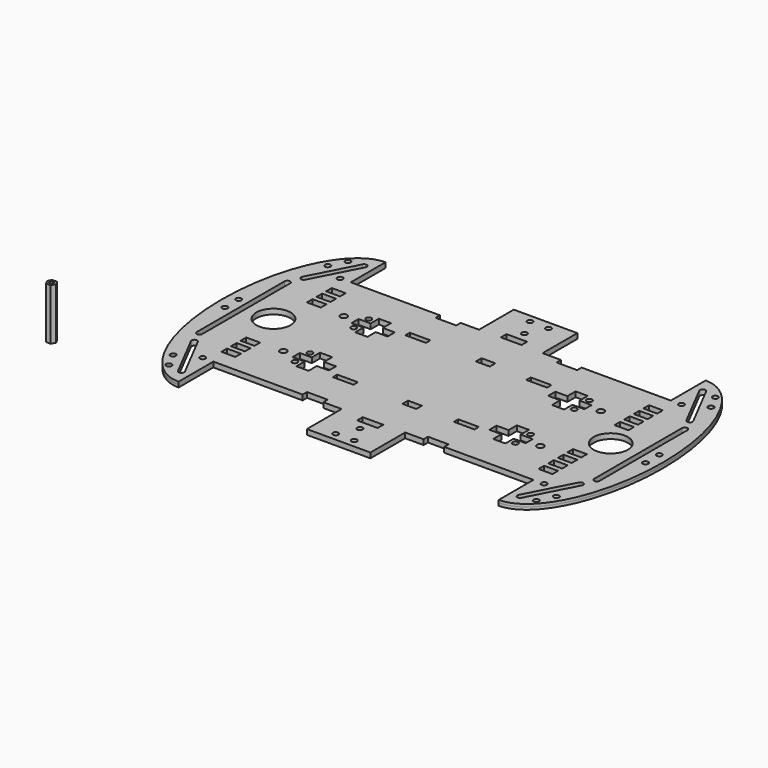
from build123d import *

# Parameters (mm, degrees)
F1_DEPTH = 1.5
F2_R     = 1.6
F2_W     = 12
F2_H     = 4.1
F2_H_2   = 3.2
F2_R_2   = 10
F2_R_3   = 2
F2_W_2   = 8.1
F3_DEPTH = 3
F4_W     = 8.1
F4_H     = 4.1
F5_DEPTH = 3
F6_R     = 1.143171692
F7_DEPTH = 30


with BuildPart() as f1:
    # F0 (on Top) → F1 (new body, symmetric)
    with BuildSketch(Plane.XY):
        with BuildLine():
            Line((18.5, 75.3), (0, 75.3))
            Line((0, 75.3), (-18.5, 75.3))
            Line((-18.5, 75.3), (-18.5, 50))
            Line((-18.5, 50), (-29.2, 50))
            Line((-29.2, 50), (-29.2, 46.8))
            Line((-29.2, 46.8), (-41.2, 46.8))
            Line((-41.2, 46.8), (-41.2, 50))
            Line((-41.2, 50), (-93.2, 50))
            Line((-93.2, 50), (-93.2, 75.3))
            add(Edge.make_bspline(
                [(-93.2, 75.3), (-128.5, 75.3), (-128.5, 0)],
                knots=[0, 0, 0, 1.5707963268, 1.5707963268, 1.5707963268], degree=2, weights=[1, 0.7071067812, 1]))
            add(Edge.make_bspline(
                [(-128.5, 0), (-128.5, -75.3), (-93.2, -75.3)],
                knots=[4.7123889804, 4.7123889804, 4.7123889804, 6.2831853072, 6.2831853072, 6.2831853072], degree=2, weights=[1, 0.7071067812, 1]))
            Line((-93.2, -75.3), (-93.2, -50))
            Line((-93.2, -50), (-41.2, -50))
            Line((-41.2, -50), (-41.2, -46.8))
            Line((-41.2, -46.8), (-29.2, -46.8))
            Line((-29.2, -46.8), (-29.2, -50))
            Line((-29.2, -50), (-18.5, -50))
            Line((-18.5, -50), (-18.5, -75.3))
            Line((-18.5, -75.3), (0, -75.3))
            Line((0, -75.3), (18.5, -75.3))
            Line((18.5, -75.3), (18.5, -50))
            Line((18.5, -50), (29.2, -50))
            Line((29.2, -50), (29.2, -46.8))
            Line((29.2, -46.8), (41.2, -46.8))
            Line((41.2, -46.8), (41.2, -50))
            Line((41.2, -50), (93.2, -50))
            Line((93.2, -50), (93.2, -75.3))
            add(Edge.make_bspline(
                [(93.2, -75.3), (128.5, -75.3), (128.5, 0)],
                knots=[0, 0, 0, 1.5707963268, 1.5707963268, 1.5707963268], degree=2, weights=[1, 0.7071067812, 1]))
            add(Edge.make_bspline(
                [(128.5, 0), (128.5, 75.3), (93.2, 75.3)],
                knots=[4.7123889804, 4.7123889804, 4.7123889804, 6.2831853072, 6.2831853072, 6.2831853072], degree=2, weights=[1, 0.7071067812, 1]))
            Line((93.2, 75.3), (93.2, 50))
            Line((93.2, 50), (41.2, 50))
            Line((41.2, 50), (41.2, 46.8))
            Line((41.2, 46.8), (29.2, 46.8))
            Line((29.2, 46.8), (29.2, 50))
            Line((29.2, 50), (18.5, 50))
            Line((18.5, 50), (18.5, 75.3))
        make_face()
    extrude(amount=F1_DEPTH, both=True)

    # F2 (on face) → F3 (cut, through all)
    with BuildSketch(Plane.XY.offset(1.5)):
        with Locations((0, 59.9)):
            Circle(F2_R)
        with Locations((5.4, 70.7)):
            Circle(F2_R)
        with Locations((0, 52.35)):
            Rectangle(F2_W, F2_H)
        with Locations((35.2341187596, 26.4)):
            Rectangle(F2_W, F2_H_2)
        Polygon((53.7341187596, 24), (46.7341187596, 24), (46.7341187596, 18.8), (53.7341187596, 18.8), (53.7341187596, 12.8), (60.8341187596, 12.8), (60.8341187596, 18.8), (67.8341187596, 18.8), (67.8341187596, 24), (60.8341187596, 24), (60.8341187596, 30), (53.7341187596, 30), align=None)
        with Locations((64.2341187596, 26.9)):
            Circle(F2_R)
        with Locations((64.2341187596, 15.9)):
            Circle(F2_R)
        with Locations((-5.4, 70.7)):
            Circle(F2_R)
        with Locations((-35.2341187596, 26.4)):
            Rectangle(F2_W, F2_H_2)
        Polygon((-53.7341187596, 12.8), (-53.7341187596, 18.8), (-46.7341187596, 18.8), (-46.7341187596, 24), (-53.7341187596, 24), (-53.7341187596, 30), (-60.8341187596, 30), (-60.8341187596, 24), (-67.8341187596, 24), (-67.8341187596, 18.8), (-60.8341187596, 18.8), (-60.8341187596, 12.8), align=None)
        with Locations((-64.2341187596, 26.9)):
            Circle(F2_R)
        with Locations((-64.2341187596, 15.9)):
            Circle(F2_R)
        Polygon((-67.8341187596, -18.8), (-67.8341187596, -24), (-60.8341187596, -24), (-60.8341187596, -30), (-53.7341187596, -30), (-53.7341187596, -24), (-46.7341187596, -24), (-46.7341187596, -18.8), (-53.7341187596, -18.8), (-53.7341187596, -12.8), (-60.8341187596, -12.8), (-60.8341187596, -18.8), align=None)
        with Locations((35.2341187596, -26.4)):
            Rectangle(F2_W, F2_H_2)
        with Locations((-35.2341187596, -26.4)):
            Rectangle(F2_W, F2_H_2)
        Polygon((60.8341187596, -12.8), (53.7341187596, -12.8), (53.7341187596, -18.8), (46.7341187596, -18.8), (46.7341187596, -24), (53.7341187596, -24), (53.7341187596, -30), (60.8341187596, -30), (60.8341187596, -24), (67.8341187596, -24), (67.8341187596, -18.8), (60.8341187596, -18.8), align=None)
        with Locations((-64.2341187596, -26.9)):
            Circle(F2_R)
        with Locations((-64.2341187596, -15.9)):
            Circle(F2_R)
        with Locations((64.2341187596, -15.9)):
            Circle(F2_R)
        with Locations((64.2341187596, -26.9)):
            Circle(F2_R)
        with Locations((0, -52.35)):
            Rectangle(F2_W, F2_H)
        with Locations((5.4, -70.7)):
            Circle(F2_R)
        with Locations((0, -59.9)):
            Circle(F2_R)
        with Locations((-5.4, -70.7)):
            Circle(F2_R)
        with Locations((98.2, 0)):
            Circle(F2_R_2)
        with BuildLine():
            ThreePointArc((117.3, 32), (115.7, 33.6), (114.1, 32))
            Line((114.1, 32), (114.1, -32))
            ThreePointArc((114.1, -32), (115.7, -33.6), (117.3, -32))
            Line((117.3, -32), (117.3, 32))
        make_face()
        with BuildLine():
            ThreePointArc((113.7918784988, -40.5513845842), (113.1046873863, -38.3955162267), (110.9488190288, -39.0827073393))
            Line((110.9488190288, -39.0827073393), (97.1799698572, -65.7363898708))
            ThreePointArc((97.1799698572, -65.7363898708), (97.8671609698, -67.8922582283), (100.0230293273, -67.2050671157))
            Line((100.0230293273, -67.2050671157), (113.7918784988, -40.5513845842))
        make_face()
        with Locations((99.4, -50)):
            Circle(F2_R)
        with BuildLine():
            Line((-117.3, 32), (-117.3, -32))
            ThreePointArc((-117.3, -32), (-115.7, -33.6), (-114.1, -32))
            Line((-114.1, -32), (-114.1, 32))
            ThreePointArc((-114.1, 32), (-115.7, 33.6), (-117.3, 32))
        make_face()
        with Locations((122.4785327461, 5.05)):
            Circle(F2_R)
        with Locations((122.4785327461, -5.05)):
            Circle(F2_R)
        with Locations((-122.4785327461, 5.05)):
            Circle(F2_R)
        with Locations((-122.4785327461, -5.05)):
            Circle(F2_R)
        with Locations((111.5718483561, -56.287774455)):
            Circle(F2_R)
        with Locations((106.9822319655, -65.1723352988)):
            Circle(F2_R)
        with BuildLine():
            Line((113.7918784988, 40.5513845842), (100.0230293273, 67.2050671157))
            ThreePointArc((100.0230293273, 67.2050671157), (97.8671609698, 67.8922582283), (97.1799698572, 65.7363898708))
            Line((97.1799698572, 65.7363898708), (110.9488190288, 39.0827073393))
            ThreePointArc((110.9488190288, 39.0827073393), (113.1046873863, 38.3955162267), (113.7918784988, 40.5513845842))
        make_face()
        with Locations((99.4, 50)):
            Circle(F2_R)
        with Locations((111.5718483561, 56.287774455)):
            Circle(F2_R)
        with Locations((106.9822319655, 65.1723352988)):
            Circle(F2_R)
        with Locations((-111.5718483561, 56.287774455)):
            Circle(F2_R)
        with BuildLine():
            ThreePointArc((-97.1799698572, 65.7363898708), (-97.8671609698, 67.8922582283), (-100.0230293273, 67.2050671157))
            Line((-100.0230293273, 67.2050671157), (-113.7918784988, 40.5513845842))
            ThreePointArc((-113.7918784988, 40.5513845842), (-113.1046873863, 38.3955162267), (-110.9488190288, 39.0827073393))
            Line((-110.9488190288, 39.0827073393), (-97.1799698572, 65.7363898708))
        make_face()
        with Locations((-99.4, 50)):
            Circle(F2_R)
        with Locations((-106.9822319655, 65.1723352988)):
            Circle(F2_R)
        with Locations((-111.5718483561, -56.287774455)):
            Circle(F2_R)
        with Locations((-106.9822319655, -65.1723352988)):
            Circle(F2_R)
        with Locations((-99.4, -50)):
            Circle(F2_R)
        with BuildLine():
            Line((-97.1799698572, -65.7363898708), (-110.9488190288, -39.0827073393))
            ThreePointArc((-110.9488190288, -39.0827073393), (-113.1046873863, -38.3955162267), (-113.7918784988, -40.5513845842))
            Line((-113.7918784988, -40.5513845842), (-100.0230293273, -67.2050671157))
            ThreePointArc((-100.0230293273, -67.2050671157), (-97.8671609698, -67.8922582283), (-97.1799698572, -65.7363898708))
        make_face()
        with Locations((74.8341187596, -22)):
            Circle(F2_R_3)
        with Locations((92.35, -38.15)):
            Rectangle(F2_W_2, F2_H)
        with Locations((-74.8341187596, -22)):
            Circle(F2_R_3)
        with Locations((74.8341187596, 22)):
            Circle(F2_R_3)
        with Locations((-74.8341187596, 22)):
            Circle(F2_R_3)
        with Locations((92.35, -31.15)):
            Rectangle(F2_W_2, F2_H)
        with Locations((92.35, -24.15)):
            Rectangle(F2_W_2, F2_H)
        with Locations((-92.35, -24.15)):
            Rectangle(F2_W_2, F2_H)
        with Locations((-92.35, -31.15)):
            Rectangle(F2_W_2, F2_H)
        with Locations((-92.35, -38.15)):
            Rectangle(F2_W_2, F2_H)
        with Locations((-92.35, 38.15)):
            Rectangle(F2_W_2, F2_H)
        with Locations((-92.35, 31.15)):
            Rectangle(F2_W_2, F2_H)
        with Locations((-92.35, 24.15)):
            Rectangle(F2_W_2, F2_H)
        with Locations((92.35, 38.15)):
            Rectangle(F2_W_2, F2_H)
        with Locations((92.35, 24.15)):
            Rectangle(F2_W_2, F2_H)
        with Locations((92.35, 31.15)):
            Rectangle(F2_W_2, F2_H)
        with Locations((-98.2, 0)):
            Circle(F2_R_2)
    extrude(amount=-F3_DEPTH, mode=Mode.SUBTRACT)

    # F4 (on face) → F5 (cut, through all)
    with BuildSketch(Plane.XY.offset(1.5)):
        with Locations((3.95, -26.75)):
            Rectangle(F4_W, F4_H)
        with Locations((3.95, 26.75)):
            Rectangle(F4_W, F4_H)
        with Locations((92.35, -17.15)):
            Rectangle(F4_W, F4_H)
        with Locations((92.35, 17.15)):
            Rectangle(F4_W, F4_H)
    extrude(amount=-F5_DEPTH, mode=Mode.SUBTRACT)


with BuildPart() as f7:
    # F6 (on Top) → F7 (new body)
    with BuildSketch(Plane.XY):
        Polygon((-166.3842683673, -80.2827982187), (-163.728457129, -80.2827982187), (-162.4005515099, -77.9827982187), (-163.728457129, -75.6827982187), (-166.3842683673, -75.6827982187), (-167.7121739864, -77.9827982187), align=None)
        with Locations((-165.0563627481, -77.9827982187)):
            Circle(F6_R, mode=Mode.SUBTRACT)
    extrude(amount=F7_DEPTH)


solid = Compound([f1.part, f7.part])
